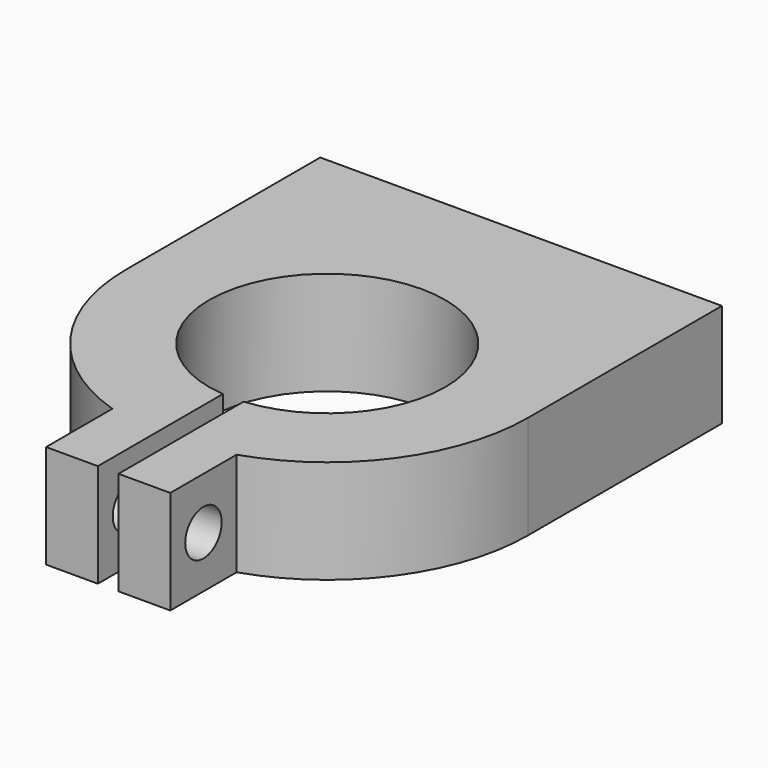
from build123d import *

# Parameters (mm, degrees)
F1_DEPTH = 12.5
F3_D     = 11


with BuildPart() as f1:
    # F0 (on Top) → F1 (new body, symmetric)
    with BuildSketch(Plane.XY):
        with BuildLine():
            ThreePointArc((28.5, 0), (21.017849557, -19.2483765549), (2.5, -28.3901391332))
            Line((2.5, -28.3901391332), (2.5, -66.1221205063))
            Line((2.5, -66.1221205063), (15, -66.1221205063))
            Line((15, -66.1221205063), (15, -46.1221205063))
            ThreePointArc((15, -46.1221205063), (39.2412410609, -28.5021928981), (48.5, 0))
            Line((48.5, 0), (28.5, 0))
        make_face()
        with BuildLine():
            ThreePointArc((-28.5, 0), (0, 28.5), (28.5, 0))
            Line((28.5, 0), (48.5, 0))
            ThreePointArc((48.5, 0), (0, 48.5), (-48.5, 0))
            Line((-48.5, 0), (-28.5, 0))
        make_face()
        with BuildLine():
            ThreePointArc((-2.5, -28.3901391332), (-21.017849557, -19.2483765549), (-28.5, 0))
            Line((-28.5, 0), (-48.5, 0))
            ThreePointArc((-48.5, 0), (-39.2412410609, -28.5021928981), (-15, -46.1221205063))
            Line((-15, -46.1221205063), (-15, -66.1221205063))
            Line((-15, -66.1221205063), (-2.5, -66.1221205063))
            Line((-2.5, -66.1221205063), (-2.5, -28.3901391332))
        make_face()
        with BuildLine():
            ThreePointArc((-48.5, 0), (0, 48.5), (48.5, 0))
            Line((48.5, 0), (48.5, 58.5))
            Line((48.5, 58.5), (-48.5, 58.5))
            Line((-48.5, 58.5), (-48.5, 0))
        make_face()
    extrude(amount=F1_DEPTH, both=True)

    # F3 (through all)
    with Locations(Plane.YZ.offset(15)):
        with Locations((-56.1221205063, 0)):
            Hole(F3_D / 2)


solid = f1.part
